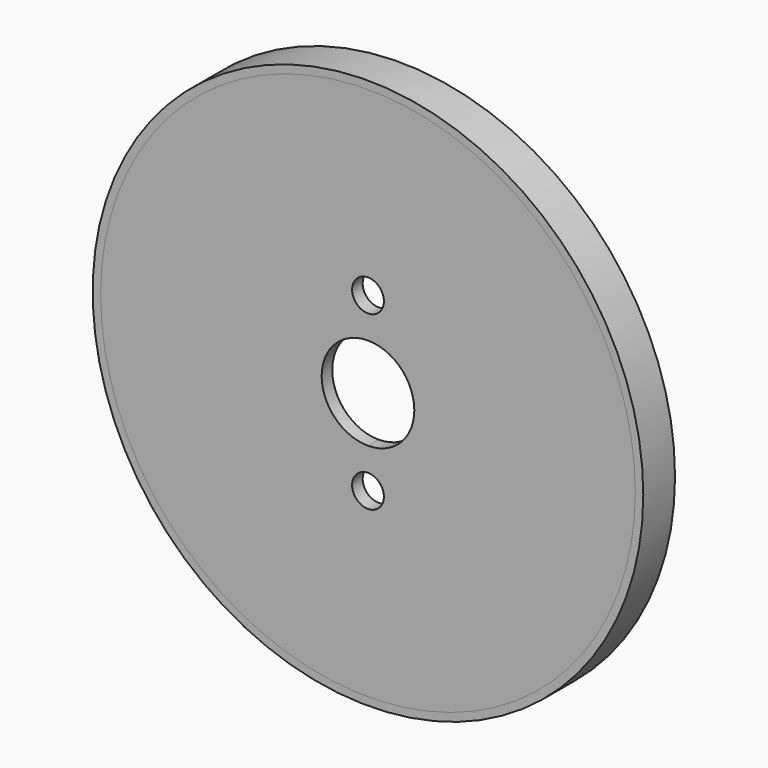
from build123d import *

# Parameters (mm, degrees)
F0_R     = 101
F0_R_2   = 6
F1_DEPTH = 5
F0_R_3   = 104
F2_DEPTH = 15


with BuildPart() as f1:
    # F0 (on Front) → F1 (new body)
    with BuildSketch(Plane.XZ):
        Circle(F0_R)
        with BuildLine():
            ThreePointArc((15, -32.5), (-10.606602, -43.106602), (0, -17.5))
            ThreePointArc((0, -17.5), (10.606602, -21.893398), (15, -32.5))
        make_face(mode=Mode.SUBTRACT)
        with BuildLine():
            ThreePointArc((0, 17.5), (12.374369, 12.374369), (17.5, 0))
            ThreePointArc((17.5, 0), (12.374369, -12.374369), (0, -17.5))
            ThreePointArc((0, -17.5), (-17.5, 0), (0, 17.5))
        make_face(mode=Mode.SUBTRACT)
        with BuildLine():
            ThreePointArc((15, 32.5), (10.606602, 21.893398), (0, 17.5))
            ThreePointArc((0, 17.5), (-10.606602, 43.106602), (15, 32.5))
        make_face(mode=Mode.SUBTRACT)
        with BuildLine():
            ThreePointArc((15, 32.5), (-10.606602, 43.106602), (0, 17.5))
            ThreePointArc((0, 17.5), (10.606602, 21.893398), (15, 32.5))
        make_face()
        with Locations((0, 32.5)):
            Circle(F0_R_2, mode=Mode.SUBTRACT)
        with BuildLine():
            ThreePointArc((15, -32.5), (10.606602, -21.893398), (0, -17.5))
            ThreePointArc((0, -17.5), (-10.606602, -43.106602), (15, -32.5))
        make_face()
        with Locations((0, -32.5)):
            Circle(F0_R_2, mode=Mode.SUBTRACT)
    extrude(amount=-F1_DEPTH)


with BuildPart() as f2:
    # F0 (on Front) → F2 (new body)
    with BuildSketch(Plane.XZ):
        Circle(F0_R_3)
        Circle(F0_R, mode=Mode.SUBTRACT)
    extrude(amount=-F2_DEPTH)


solid = Compound([f1.part, f2.part])
